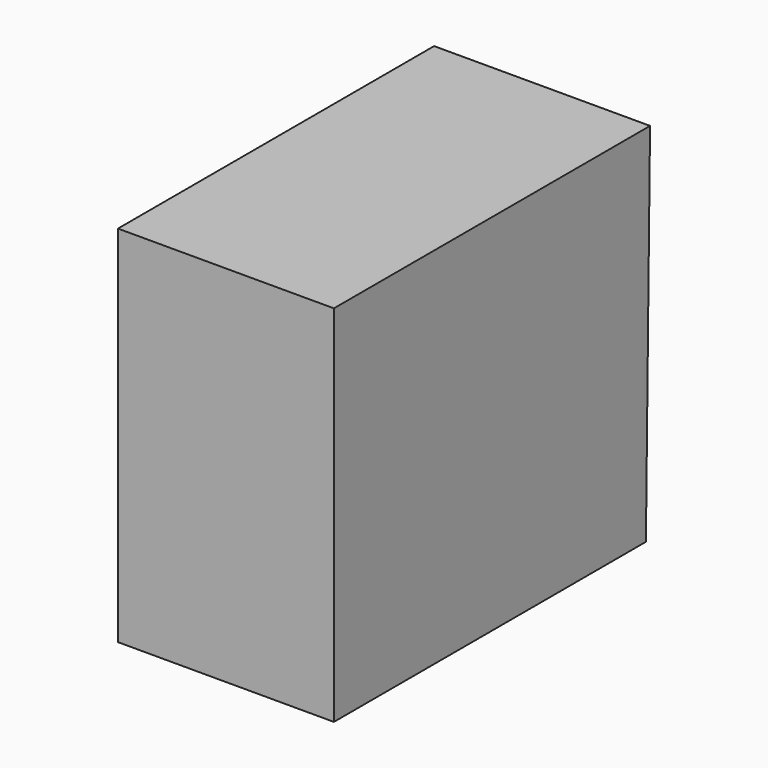
from build123d import *

# Parameters (mm, degrees)
F1_DEPTH = 25.4
F2_DEPTH = 25.4


with BuildPart() as f1:
    # F0 (on Right) → F1 (new body)
    with BuildSketch(Plane.YZ):
        Polygon((48.463199, 45.567602), (-44.500802, 45.567602), (-44.500802, -40.081199), (47.244001, -40.081199), align=None)
    extrude(amount=F1_DEPTH)

    # F1_face (on face) → F2 (join)
    with BuildSketch(Plane(origin=(25.4, 1.67707, 2.837424), x_dir=(0, 1, 0), z_dir=(1, 0, 0))):
        Polygon((46.786129, 42.730178), (-46.177872, 42.730178), (-46.177872, -42.918624), (45.566931, -42.918624), align=None)
    extrude(amount=F2_DEPTH)


solid = f1.part
